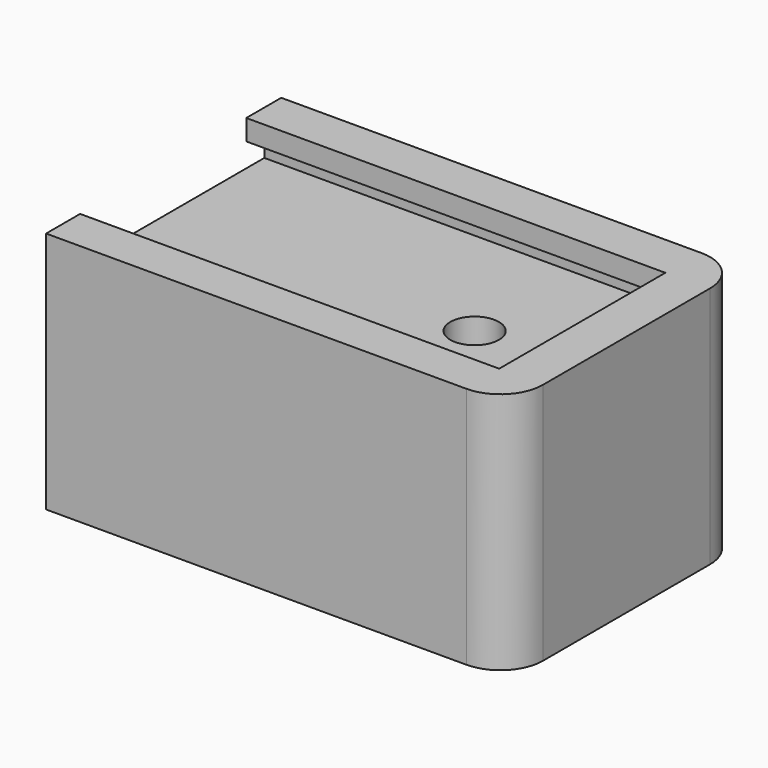
from build123d import *

# Parameters (mm, degrees)
F0_W     = 38.1
F0_H     = 24.2
F1_DEPTH = 20
F2_W     = 34.5
F2_H     = 17.1
F3_DEPTH = 1.7
F4_W     = 34.6
F4_H     = 20.55
F5_DEPTH = 1.95
F6_R     = 3.5
F7_R     = 2
F8_DEPTH = 16.35


with BuildPart() as f1:
    # F0 (on Top) → F1 (new body)
    with BuildSketch(Plane.XY):
        with Locations((-19.05, 12.1)):
            Rectangle(F0_W, F0_H)
    extrude(amount=F1_DEPTH)

    # F2 (on face) → F3 (cut)
    with BuildSketch(Plane.XY.offset(20)):
        with Locations((-20.85, 12.05)):
            Rectangle(F2_W, F2_H)
    extrude(amount=-F3_DEPTH, mode=Mode.SUBTRACT)

    # F4 (on face) → F5 (cut)
    with BuildSketch(Plane.XY.offset(18.3)):
        with Locations((-20.8, 12.183178224)):
            Rectangle(F4_W, F4_H)
    extrude(amount=-F5_DEPTH, mode=Mode.SUBTRACT)

    # F6
    f6_edges = [f1.edges().sort_by_distance(p)[0] for p in [
        (0, 24.2, 10),
        (0, 0, 10),
    ]]
    fillet(f6_edges, radius=F6_R)

    # F7 (on face) → F8 (cut, through all)
    with BuildSketch(Plane.XY.offset(16.35)):
        with Locations((-12.5, 12.1)):
            Circle(F7_R)
    extrude(amount=-F8_DEPTH, mode=Mode.SUBTRACT)


solid = f1.part
